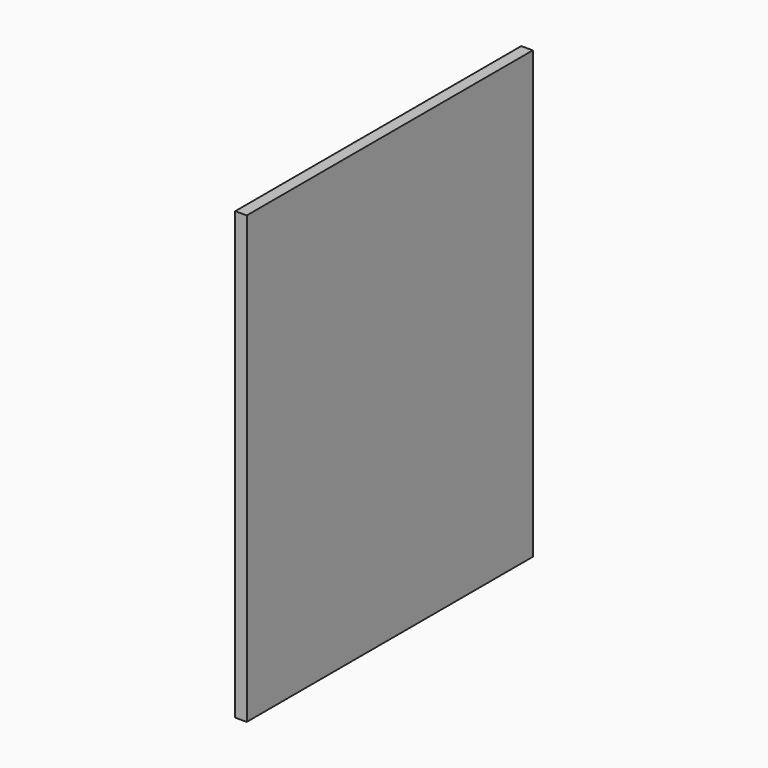
from build123d import *

# Parameters (mm, degrees)
F0_W     = 590.55
F0_H     = 736.6
F1_DEPTH = 19.05
F2_DEPTH = 19.05


with BuildPart() as f1:
    # F0 (on Right) → F1 (new body)
    with BuildSketch(Plane.YZ):
        Rectangle(F0_W, F0_H)
    extrude(amount=-F1_DEPTH)

    # F0 (on Right) → F2 (join)
    with BuildSketch(Plane.YZ):
        Rectangle(F0_W, F0_H)
    extrude(amount=-F2_DEPTH)


solid = f1.part
